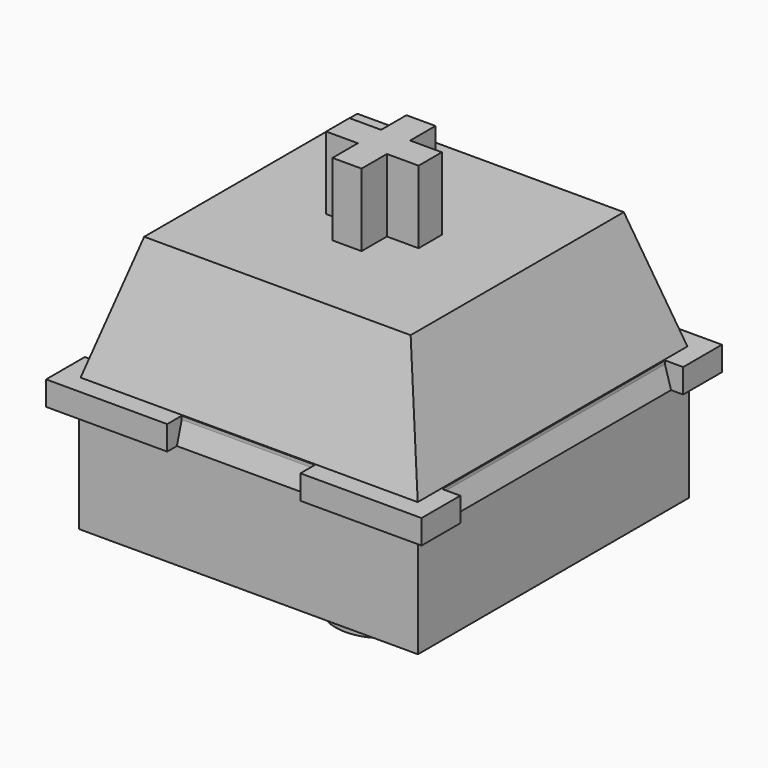
from build123d import *

# Parameters (mm, degrees)
BOX017_W          = 14
BOX017_H          = 14
BOX017_DEPTH      = 4.5
CYLINDER095_R     = 2
CYLINDER095_DEPTH = 8
PAD089_DEPTH      = 1
SKETCH155_W       = 14.5
SKETCH155_H       = 14.5
SKETCH156_W       = 11
SKETCH156_H       = 11
PAD090_DEPTH      = 9
SKETCH158_W       = 7.5
SKETCH158_H       = 6
PAD092_DEPTH      = 1


with BuildPart() as part:
    # Box017 → Box017 (join)
    with BuildSketch(Plane(origin=(7, -7, 0), x_dir=(-1, 0, 0), z_dir=(0, 0, -1))):
        with Locations((7, 7)):
            Rectangle(BOX017_W, BOX017_H)
    extrude(amount=BOX017_DEPTH)

    # Cylinder095 → Cylinder095 (join)
    with BuildSketch(Plane(origin=(0, 0, 0), x_dir=(-1, 0, 0), z_dir=(0, 0, -1))):
        Circle(CYLINDER095_R)
    extrude(amount=CYLINDER095_DEPTH)

    # Sketch154 → Pad089 (join)
    with BuildSketch(Plane.XY):
        Polygon((-7.75, 5.75), (-7.75, 7.75), (-2.75, 7.75), (-2.75, 7), (2.75, 7), (2.75, 7.75), (7.75, 7.75), (7.75, 5.75), (7, 5.75), (7, -5.75), (7.75, -5.75), (7.75, -7.75), (2.75, -7.75), (2.75, -7), (-2.75, -7), (-2.75, -7.75), (-7.75, -7.75), (-7.75, -5.75), (-7, -5.75), (-7, 5.75), align=None)
    extrude(amount=PAD089_DEPTH)

    # Sketch155 → AdditiveLoft002 section 0
    with BuildSketch(Plane.XY):
        Rectangle(SKETCH155_W, SKETCH155_H)
    # Sketch156 → AdditiveLoft002 section 1
    with BuildSketch(Plane.XY.offset(6)):
        Rectangle(SKETCH156_W, SKETCH156_H)
    loft()

    # Sketch157 → Pad090 (join)
    with BuildSketch(Plane.XY):
        Polygon((-0.6, 1.907878), (0.6, 1.907878), (0.6, 0.6), (1.907878, 0.6), (1.907878, -0.6), (0.6, -0.6), (0.6, -1.907878), (-0.6, -1.907878), (-0.6, -0.6), (-1.907878, -0.6), (-1.907878, 0.6), (-0.6, 0.6), align=None)
    extrude(amount=PAD090_DEPTH)

    # Sketch158 → Pad092 (join)
    with BuildSketch(Plane.XY.offset(5)):
        Rectangle(SKETCH158_W, SKETCH158_H)
    extrude(amount=PAD092_DEPTH)


with BuildPart() as part_1:
    # Body181003 placement: moved
    add(part.part.moved(Location((0, 8, 0))))


solid = part_1.part
